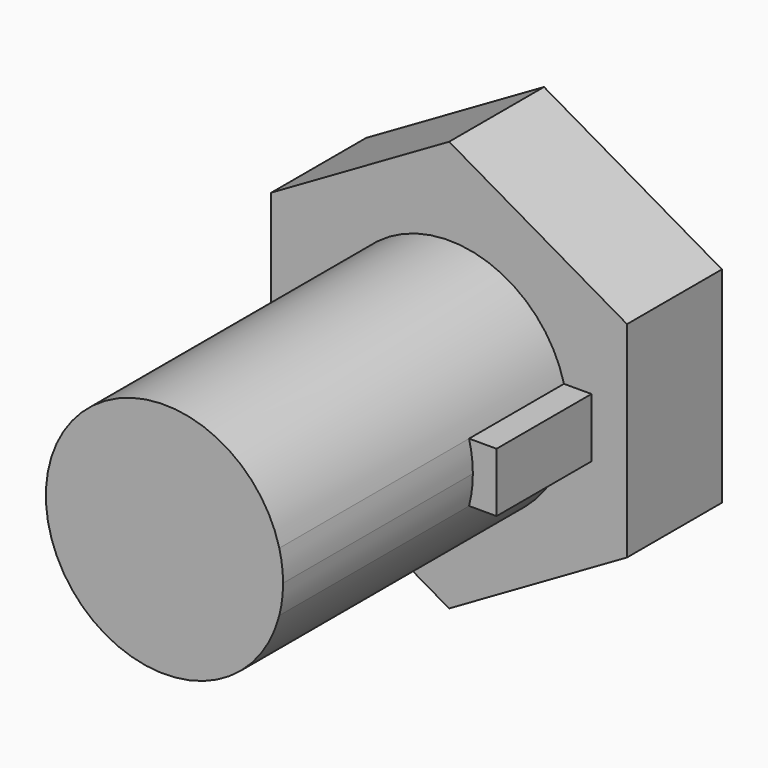
from build123d import *

# Parameters (mm, degrees)
F1_DEPTH = 30
F2_DEPTH = 10
F4_DEPTH = 10


with BuildPart() as f1:
    # F0 (on Front) → F1 (new body)
    with BuildSketch(Plane.XZ):
        with BuildLine():
            ThreePointArc((9.682458, -2.5), (9.920297, -1.260043), (10, 0))
            ThreePointArc((10, 0), (9.920297, 1.260043), (9.682458, 2.5))
            ThreePointArc((9.682458, 2.5), (-10, 0), (9.682458, -2.5))
        make_face()
    extrude(amount=F1_DEPTH)

    # F0 (on Front) → F2 (join)
    with BuildSketch(Plane.XZ):
        with BuildLine():
            ThreePointArc((9.682458, 2.5), (9.920297, 1.260043), (10, 0))
            ThreePointArc((10, 0), (9.920297, -1.260043), (9.682458, -2.5))
            Line((9.682458, -2.5), (12, -2.5))
            Line((12, -2.5), (12, 2.5))
            Line((12, 2.5), (9.682458, 2.5))
        make_face()
    extrude(amount=F2_DEPTH)

    # F3 (on Front) → F4 (join)
    with BuildSketch(Plane.XZ):
        Polygon((-15.000149, 8.66034), (-15.000149, -8.66034), (0, -17.32068), (15.000149, -8.66034), (15.000149, 8.66034), (0, 17.32068), align=None)
    extrude(amount=-F4_DEPTH)


solid = f1.part
